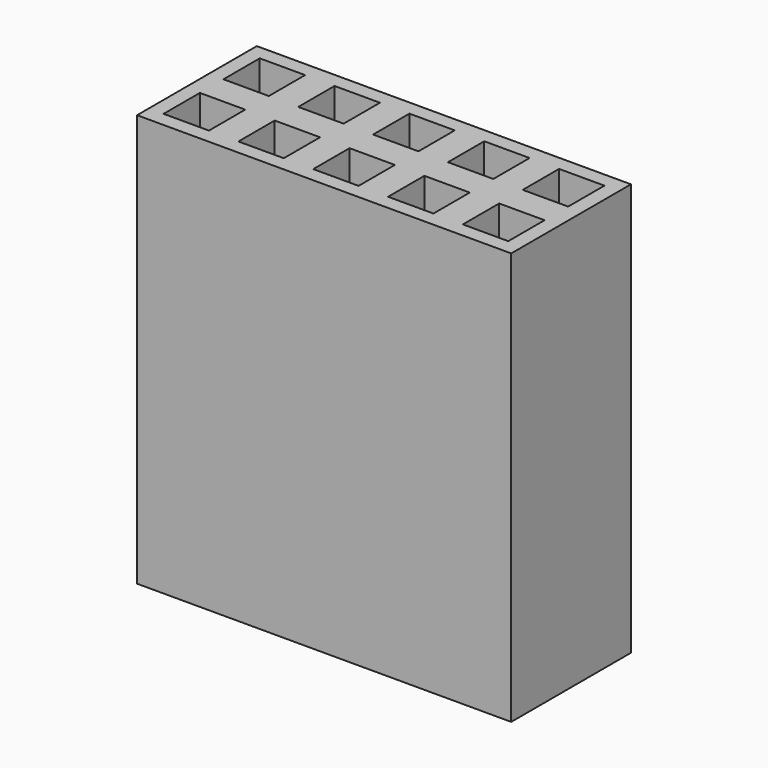
from build123d import *

# Parameters (mm, degrees)
F0_W     = 2.54
F0_H     = 2.54
F0_W_2   = 1.54
F0_H_2   = 1.54
F1_DEPTH = 14


with BuildPart() as f1:
    # F0 (on Top) → F1 (new body)
    with BuildSketch(Plane.XY):
        with Locations((-35.384618, 21.110514)):
            Rectangle(F0_W, F0_H)
        with Locations((-35.384618, 21.110514)):
            Rectangle(F0_W_2, F0_H_2, mode=Mode.SUBTRACT)
        with Locations((-35.384618, 23.650514)):
            Rectangle(F0_W, F0_H)
        with Locations((-35.384618, 23.650514)):
            Rectangle(F0_W_2, F0_H_2, mode=Mode.SUBTRACT)
        with Locations((-32.844618, 23.650514)):
            Rectangle(F0_W, F0_H)
        with Locations((-32.844618, 23.650514)):
            Rectangle(F0_W_2, F0_H_2, mode=Mode.SUBTRACT)
        with Locations((-32.844618, 21.110514)):
            Rectangle(F0_W, F0_H)
        with Locations((-32.844618, 21.110514)):
            Rectangle(F0_W_2, F0_H_2, mode=Mode.SUBTRACT)
        with Locations((-30.304618, 21.110514)):
            Rectangle(F0_W, F0_H)
        with Locations((-30.304618, 21.110514)):
            Rectangle(F0_W_2, F0_H_2, mode=Mode.SUBTRACT)
        with Locations((-30.304618, 23.650514)):
            Rectangle(F0_W, F0_H)
        with Locations((-30.304618, 23.650514)):
            Rectangle(F0_W_2, F0_H_2, mode=Mode.SUBTRACT)
        with Locations((-27.764618, 23.650514)):
            Rectangle(F0_W, F0_H)
        with Locations((-27.764618, 23.650514)):
            Rectangle(F0_W_2, F0_H_2, mode=Mode.SUBTRACT)
        with Locations((-27.764618, 21.110514)):
            Rectangle(F0_W, F0_H)
        with Locations((-27.764618, 21.110514)):
            Rectangle(F0_W_2, F0_H_2, mode=Mode.SUBTRACT)
        with Locations((-25.224618, 21.110514)):
            Rectangle(F0_W, F0_H)
        with Locations((-25.224618, 21.110514)):
            Rectangle(F0_W_2, F0_H_2, mode=Mode.SUBTRACT)
        with Locations((-25.224618, 23.650514)):
            Rectangle(F0_W, F0_H)
        with Locations((-25.224618, 23.650514)):
            Rectangle(F0_W_2, F0_H_2, mode=Mode.SUBTRACT)
    extrude(amount=F1_DEPTH)


solid = f1.part
